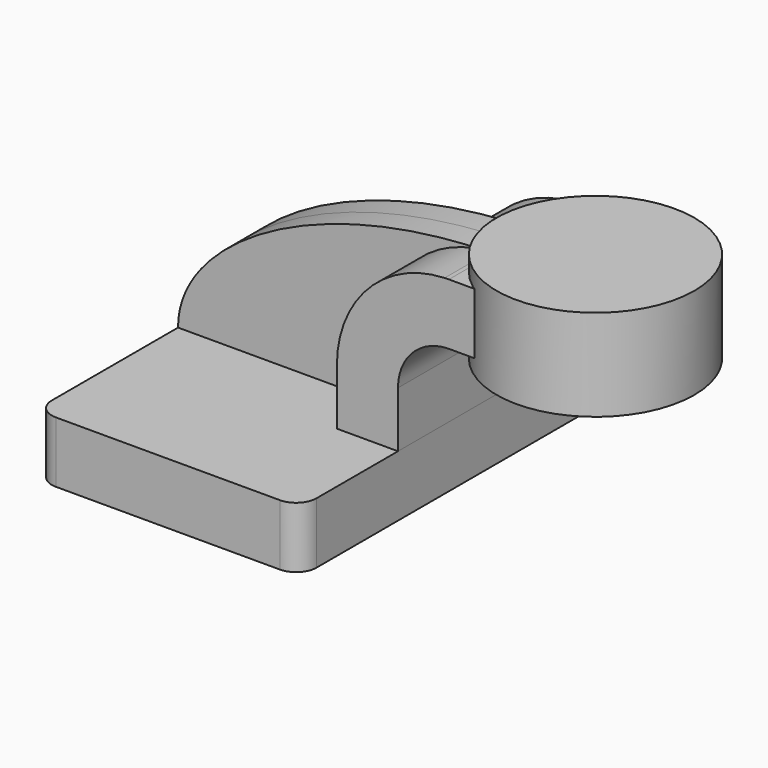
from build123d import *

# Parameters (mm, degrees)
F1_DEPTH = 63.5
F0_W     = 19.9605273192
F0_H     = 19.05
F2_DEPTH = 25.4
F3_DEPTH = 7.9375
F5_R     = 6.35


with BuildPart() as f1:
    # F0 (on Front) → F1 (new body, symmetric)
    with BuildSketch(Plane.XZ):
        Polygon((22.225, 9.525), (-41.275, 9.525), (-41.275, -9.525), (41.275, -9.525), (41.275, 9.525), align=None)
    extrude(amount=F1_DEPTH, both=True)

    # F5
    f5_edges = [f1.edges().sort_by_distance(p)[0] for p in [
        (-41.275, -63.5, 0),
        (41.275, -63.5, 0),
        (41.275, 63.5, 0),
        (-41.275, 63.5, 0),
    ]]
    fillet(f5_edges, radius=F5_R)


with BuildPart() as f2:
    # F0 (on Front) → F2 (new body, symmetric)
    with BuildSketch(Plane.XZ):
        with BuildLine():
            Line((22.225, 26.924), (22.225, 9.525))
            Line((22.225, 9.525), (41.275, 9.525))
            Line((41.275, 9.525), (41.275, 26.924))
            ThreePointArc((41.275, 26.924), (45.9246798487, 38.1493201513), (57.15, 42.799))
            Line((57.15, 42.799), (62.5674536577, 42.799))
            Line((62.5674536577, 42.799), (62.5674536577, 61.849))
            Line((62.5674536577, 61.849), (57.15, 61.849))
            add(Edge.make_bspline(
                [(55.8258251955, 61.8238880526), (56.2662688919, 61.8337886809), (56.7076645053, 61.8421635599), (57.15, 61.849)],
                knots=[110.6059898285, 110.6059898285, 110.6059898285, 110.6059898285, 111.468747194, 111.468747194, 111.468747194, 111.468747194], degree=3))
            ThreePointArc((55.8258251955, 61.8238880526), (31.9904846028, 51.1470140564), (22.225, 26.924))
        make_face()
        with Locations((72.5477173173, 52.324)):
            Rectangle(F0_W, F0_H)
    extrude(amount=F2_DEPTH, both=True)


with BuildPart() as f3:
    # F0 (on Front) → F3 (new body, symmetric)
    with BuildSketch(Plane.XZ):
        with BuildLine():
            add(Edge.make_bspline(
                [(-41.275, 9.525), (-41.4593213512, 34.2090771104), (-0.6393096823, 60.5546218275), (55.8258251955, 61.8238880526)],
                knots=[0, 0, 0, 0, 110.6059898285, 110.6059898285, 110.6059898285, 110.6059898285], degree=3))
            Line((-41.275, 9.525), (22.225, 9.525))
            Line((22.225, 9.525), (22.225, 26.924))
            ThreePointArc((22.225, 26.924), (31.9904846028, 51.1470140564), (55.8258251955, 61.8238880526))
        make_face()
    extrude(amount=F3_DEPTH, both=True)


with BuildPart() as f4:
    # F0 (on Front) → F4 (revolve)
    with BuildSketch(Plane.XZ):
        Polygon((82.5279809769, 66.675), (82.5279809769, 61.849), (82.5279809769, 42.799), (82.5279809769, 38.1), (113.3674536577, 38.1), (113.3674536577, 66.675), align=None)
    revolve(axis=Axis((82.5279809769, 0, 52.3875), (0, 0, 1)))


solid = Compound([f1.part, f2.part, f3.part, f4.part])
